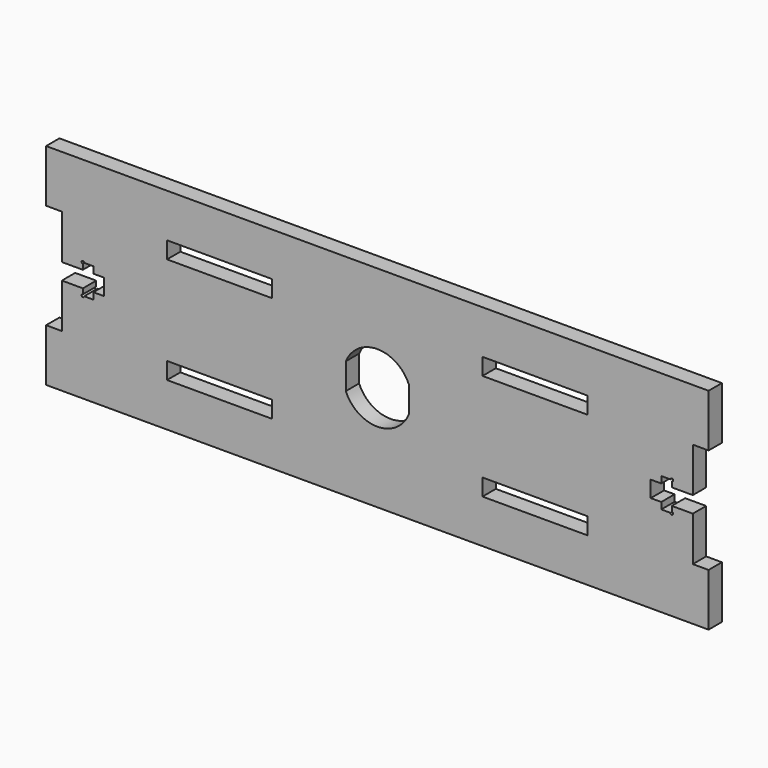
from build123d import *

# Parameters (mm, degrees)
F0_W     = 20
F0_H     = 3.2
F1_DEPTH = 3.17


with BuildPart() as f1:
    # F0 (on Front) → F1 (new body)
    with BuildSketch(Plane.XZ):
        with BuildLine():
            Line((63, 20), (0, 20))
            Line((0, 20), (-63, 20))
            Line((-63, 20), (-63, 10))
            Line((-63, 10), (-60, 10))
            Line((-60, 10), (-60, 1.55))
            Line((-60, 1.55), (-56, 1.55))
            Line((-56, 1.55), (-56, 2.55))
            ThreePointArc((-56, 2.55), (-56.176777, 2.976777), (-55.75, 2.8))
            Line((-55.75, 2.8), (-54, 2.8))
            Line((-54, 2.8), (-54, 1.55))
            Line((-54, 1.55), (-52, 1.55))
            Line((-52, 1.55), (-52, 0))
            Line((-52, 0), (-52, -1.55))
            Line((-52, -1.55), (-54, -1.55))
            Line((-54, -1.55), (-54, -2.8))
            Line((-54, -2.8), (-55.75, -2.8))
            ThreePointArc((-55.75, -2.8), (-56.176777, -2.976777), (-56, -2.55))
            Line((-56, -2.55), (-56, -1.55))
            Line((-56, -1.55), (-60, -1.55))
            Line((-60, -1.55), (-60, -10))
            Line((-60, -10), (-63, -10))
            Line((-63, -10), (-63, -20))
            Line((-63, -20), (0, -20))
            Line((0, -20), (63, -20))
            Line((63, -20), (63, -10))
            Line((63, -10), (60, -10))
            Line((60, -10), (60, -1.55))
            Line((60, -1.55), (56, -1.55))
            Line((56, -1.55), (56, -2.55))
            ThreePointArc((56, -2.55), (56.176777, -2.623223), (56.25, -2.8))
            ThreePointArc((56.25, -2.8), (56, -3.05), (55.75, -2.8))
            Line((55.75, -2.8), (54, -2.8))
            Line((54, -2.8), (54, -1.55))
            Line((54, -1.55), (52, -1.55))
            Line((52, -1.55), (52, 0))
            Line((52, 0), (52, 1.55))
            Line((52, 1.55), (54, 1.55))
            Line((54, 1.55), (54, 2.8))
            Line((54, 2.8), (55.75, 2.8))
            ThreePointArc((55.75, 2.8), (56, 3.05), (56.25, 2.8))
            ThreePointArc((56.25, 2.8), (56.176777, 2.623223), (56, 2.55))
            Line((56, 2.55), (56, 1.55))
            Line((56, 1.55), (60, 1.55))
            Line((60, 1.55), (60, 10))
            Line((60, 10), (63, 10))
            Line((63, 10), (63, 20))
        make_face()
        with Locations((-30, -10.1)):
            Rectangle(F0_W, F0_H, mode=Mode.SUBTRACT)
        with Locations((30, -10.1)):
            Rectangle(F0_W, F0_H, mode=Mode.SUBTRACT)
        with Locations((-30, 10.1)):
            Rectangle(F0_W, F0_H, mode=Mode.SUBTRACT)
        with BuildLine():
            Line((-6, -2.5), (-6, 2.5))
            ThreePointArc((-6, 2.5), (0, 6.5), (6, 2.5))
            Line((6, 2.5), (6, -2.5))
            ThreePointArc((6, -2.5), (0, -6.5), (-6, -2.5))
        make_face(mode=Mode.SUBTRACT)
        with Locations((30, 10.1)):
            Rectangle(F0_W, F0_H, mode=Mode.SUBTRACT)
    extrude(amount=F1_DEPTH)


solid = f1.part
